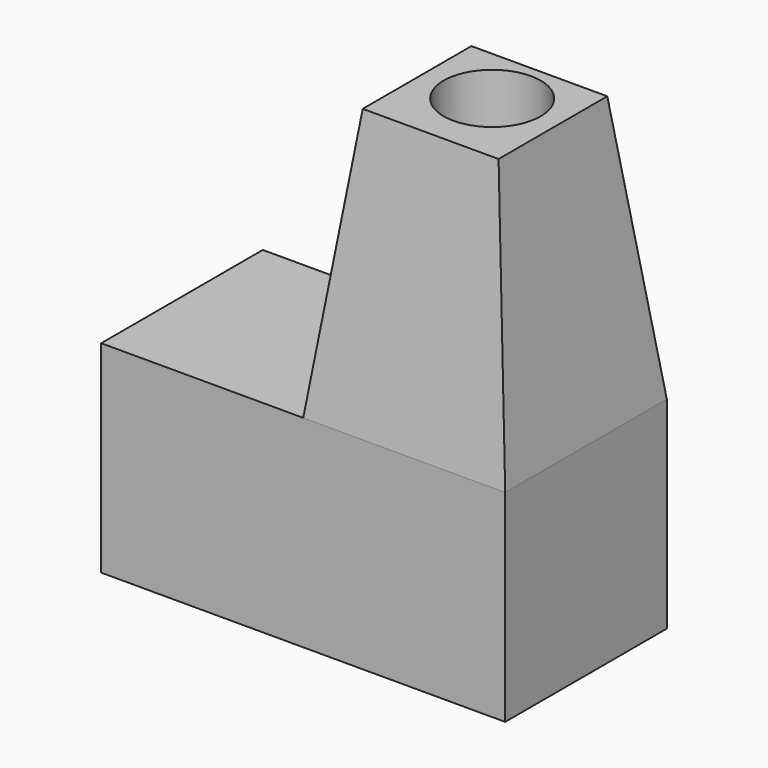
from build123d import *

# Parameters (mm, degrees)
F0_W     = 60
F0_H     = 30
F1_DEPTH = 30
F2_W     = 30
F2_H     = 30
F3_DEPTH = 40
F3_TAPER = 7
F4_R     = 7.1976041046
F5_DEPTH = 40


with BuildPart() as f1:
    # F0 (on Front) → F1 (new body)
    with BuildSketch(Plane.XZ):
        with Locations((-30, -15)):
            Rectangle(F0_W, F0_H)
    extrude(amount=F1_DEPTH)

    # F2 (on face) → F3 (join)
    with BuildSketch(Plane.XY):
        with Locations((-15, -15)):
            Rectangle(F2_W, F2_H)
    extrude(amount=F3_DEPTH, taper=F3_TAPER)

    # F4 (on face) → F5 (cut)
    with BuildSketch(Plane.XY.offset(40)):
        with Locations((-15, -13.6708561331)):
            Circle(F4_R)
    extrude(amount=-F5_DEPTH, mode=Mode.SUBTRACT)


solid = f1.part
